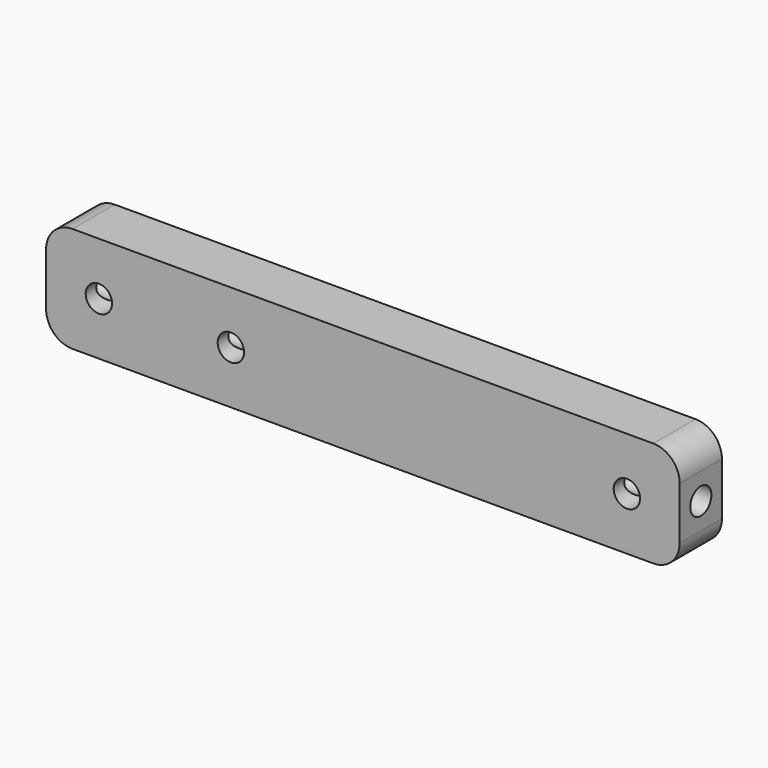
from build123d import *

# Parameters (mm, degrees)
F0_R     = 2.5
F1_DEPTH = 5
F2_R     = 2.5
F3_DEPTH = 120


with BuildPart() as f1:
    # F0 (on Front) → F1 (new body, symmetric)
    with BuildSketch(Plane.XZ):
        with BuildLine():
            Line((-55, -10), (55, -10))
            ThreePointArc((55, -10), (58.535534, -8.535534), (60, -5))
            Line((60, -5), (60, 5))
            ThreePointArc((60, 5), (58.535534, 8.535534), (55, 10))
            Line((55, 10), (-55, 10))
            ThreePointArc((-55, 10), (-58.535534, 8.535534), (-60, 5))
            Line((-60, 5), (-60, -5))
            ThreePointArc((-60, -5), (-58.535534, -8.535534), (-55, -10))
        make_face()
        with Locations((-50, 0)):
            Circle(F0_R, mode=Mode.SUBTRACT)
        with Locations((-25, 0)):
            Circle(F0_R, mode=Mode.SUBTRACT)
        with BuildLine():
            ThreePointArc((47.5, 0), (50, 2.5), (52.5, 0))
            ThreePointArc((52.5, 0), (50, -2.5), (47.5, 0))
        make_face(mode=Mode.SUBTRACT)
    extrude(amount=F1_DEPTH, both=True)

    # F2 (on face) → F3 (cut)
    with BuildSketch(Plane(origin=(-60, 0, 0), x_dir=(0, -1, 0), z_dir=(-1, 0, 0))):
        Circle(F2_R)
    extrude(amount=-F3_DEPTH, mode=Mode.SUBTRACT)


solid = f1.part
